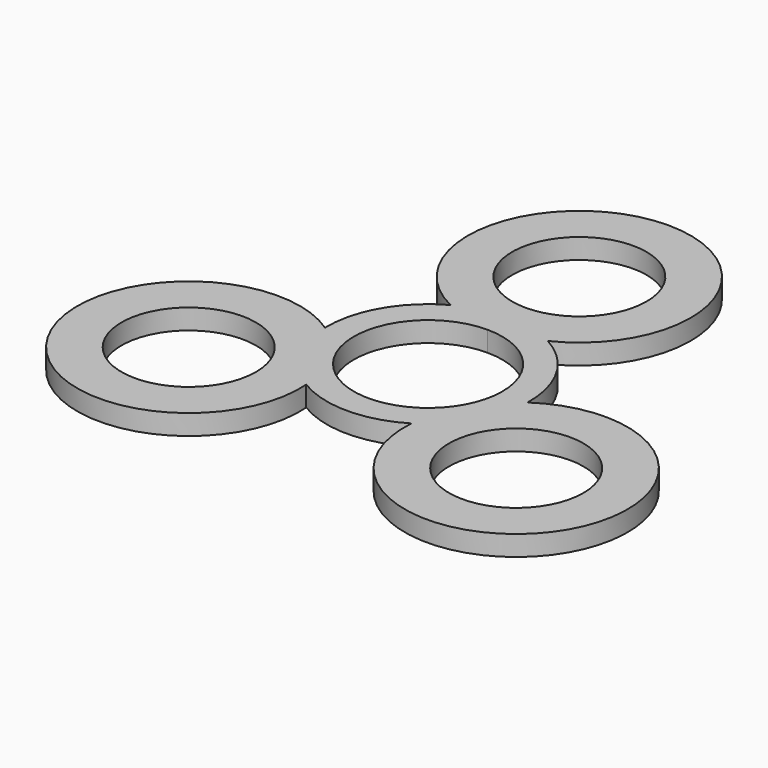
from build123d import *

# Parameters (mm, degrees)
F0_R     = 9.95
F1_DEPTH = 3


with BuildPart() as f1:
    # F0 (on Top) → F1 (new body)
    with BuildSketch(Plane.XY):
        with BuildLine():
            ThreePointArc((0, 11), (-7.778175, -7.778175), (11, 0))
            ThreePointArc((11, 0), (7.778175, 7.778175), (0, 11))
        make_face()
        with BuildLine():
            ThreePointArc((9.95, 28), (-7.035712, 35.035712), (0, 18.05))
            ThreePointArc((0, 18.05), (7.035712, 20.964288), (9.95, 28))
        make_face()
        with BuildLine():
            ThreePointArc((7.205074, 13.15625), (0, 44.5), (-7.205074, 13.15625))
            ThreePointArc((-7.205074, 13.15625), (-12.990381, 7.5), (-14.996184, -0.338348))
            ThreePointArc((-14.996184, -0.338348), (-38.53813, -22.25), (-7.79111, -12.817902))
            ThreePointArc((-7.79111, -12.817902), (0, -15), (7.79111, -12.817902))
            ThreePointArc((7.79111, -12.817902), (38.53813, -22.25), (14.996184, -0.338348))
            ThreePointArc((14.996184, -0.338348), (12.990381, 7.5), (7.205074, 13.15625))
        make_face()
        with Locations((-24.248711, -14)):
            Circle(F0_R, mode=Mode.SUBTRACT)
        with Locations((24.248711, -14)):
            Circle(F0_R, mode=Mode.SUBTRACT)
        with BuildLine():
            ThreePointArc((0, 11), (7.778175, 7.778175), (11, 0))
            ThreePointArc((11, 0), (-7.778175, -7.778175), (0, 11))
        make_face(mode=Mode.SUBTRACT)
        with BuildLine():
            ThreePointArc((9.95, 28), (7.035712, 20.964288), (0, 18.05))
            ThreePointArc((0, 18.05), (-7.035712, 35.035712), (9.95, 28))
        make_face(mode=Mode.SUBTRACT)
    extrude(amount=F1_DEPTH)


solid = f1.part
